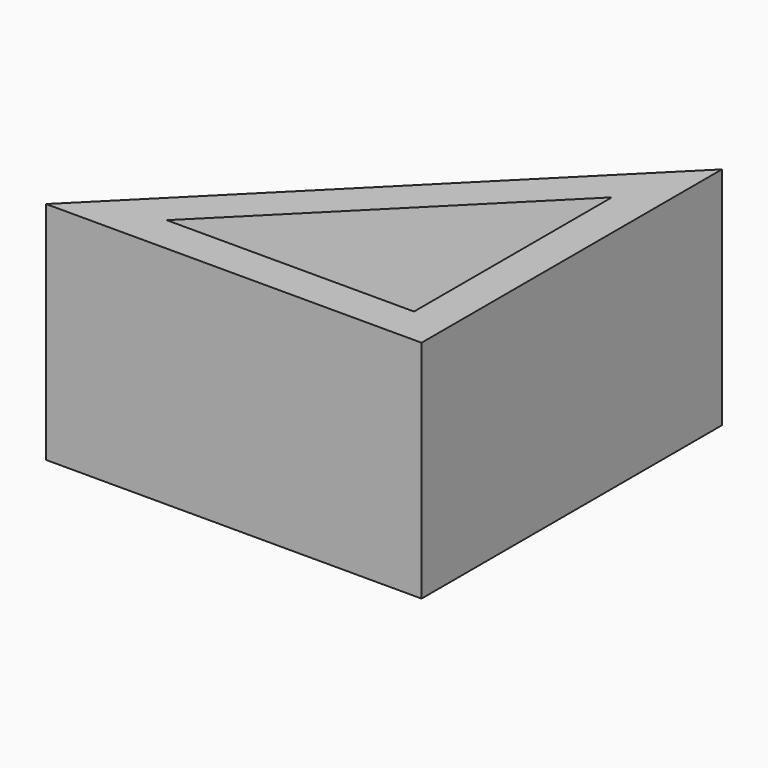
from build123d import *

# Parameters (mm, degrees)
F1_DEPTH = 30
F2_T     = -5


with BuildPart() as f1:
    # F0 (on Top) → F1 (new body)
    with BuildSketch(Plane.XY):
        Polygon((0, 50), (-50, 0), (0, 0), align=None)
    extrude(amount=F1_DEPTH)

    # F2
    f2_openings = [f1.faces().sort_by_distance(p)[0] for p in [
        (-16.666667, 16.666667, 30),
    ]]
    offset(amount=F2_T, openings=f2_openings)


solid = f1.part
